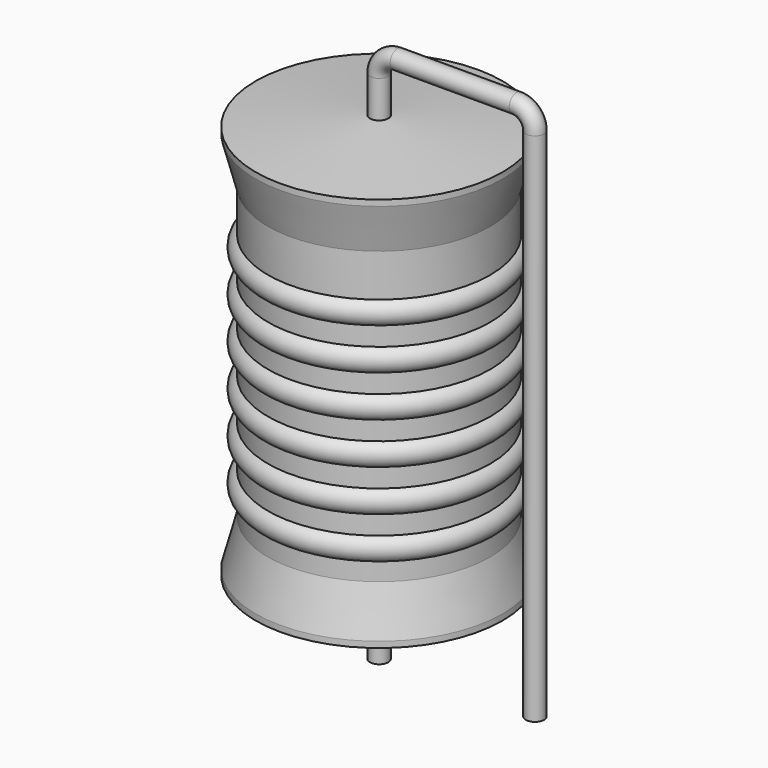
from build123d import *

# Parameters (mm, degrees)
SKETCH_R = 0.45


with BuildPart() as revolution:
    # Sketch002 → Revolution (revolve)
    with BuildSketch(Plane.XZ):
        Polygon((0, 0.1), (0, 20.42), (0.3375, 20.42), (6.035, 19.912), (6.035, 19.6195), (5.4315, 17.372), (5.4315, 3.148), (6.035, 0.9005), (6.035, 0.608), (0.3375, 0.1), align=None)
    revolve(axis=Axis((0, 0, 0), (0, 0, 1)))


with BuildPart() as sweep_body:
    # Sweep: sweep along a path in Sketch001
    with BuildLine(Plane.XZ) as sweep_path:
        Line((0, -3), (0, 22.22))
        ThreePointArc((0, 22.22), (0.263601, 22.856393), (0.899993, 23.12))
        Line((0.899993, 23.12), (6.72, 23.12))
        ThreePointArc((6.72, 23.12), (7.356396, 22.856396), (7.62, 22.22))
        Line((7.62, 22.22), (7.62, -3))
    # Sketch → Sweep (sweep)
    with BuildSketch(Plane.XY.offset(-2)):
        Circle(SKETCH_R)
    sweep(path=sweep_path.line)


with BuildPart() as obj1:
    # Sketch003 → Revolution001 (revolve)
    with BuildSketch(Plane.XZ):
        with BuildLine():
            Line((4.828, 16.165), (4.828, 3.148))
            Line((4.828, 3.148), (5.1901, 3.148))
            Line((5.1901, 3.148), (5.1901, 3.973))
            ThreePointArc((5.1901, 3.973), (5.7936, 4.5765), (5.1901, 5.18))
            Line((5.1901, 5.18), (5.1901, 6.005))
            ThreePointArc((5.1901, 6.005), (5.7936, 6.6085), (5.1901, 7.212))
            Line((5.1901, 7.212), (5.1901, 8.037))
            ThreePointArc((5.1901, 8.037), (5.7936, 8.6405), (5.1901, 9.244))
            Line((5.1901, 9.244), (5.1901, 10.069))
            ThreePointArc((5.1901, 10.069), (5.7936, 10.6725), (5.1901, 11.276))
            Line((5.1901, 11.276), (5.1901, 12.101))
            ThreePointArc((5.1901, 12.101), (5.7936, 12.7045), (5.1901, 13.308))
            Line((5.1901, 13.308), (5.1901, 14.133))
            ThreePointArc((5.1901, 14.133), (5.7936, 14.7365), (5.1901, 15.34))
            Line((5.1901, 16.165), (5.1901, 15.34))
            Line((4.828, 16.165), (5.1901, 16.165))
        make_face()
    revolve(axis=Axis((0, 0, 0), (0, 0, 1)))

    # obj1: union Revolution, Sweep body
    add(revolution.part)
    add(sweep_body.part)


solid = obj1.part
